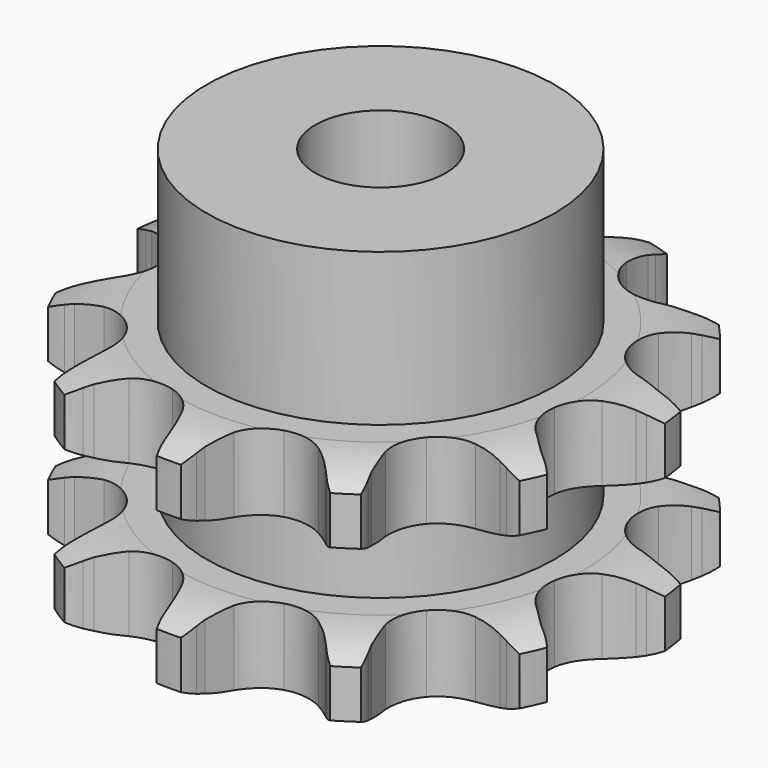
from build123d import *

# Parameters (mm, degrees)
PAD_DEPTH         = 21
SKETCH001_R       = 16
PAD001_DEPTH      = 35
SKETCH002_R       = 6
POCKET_DEPTH      = 0.001
POCKET_DEPTH_BACK = 35.001


with BuildPart() as part:
    # Sprocket → Pad (new body)
    with BuildSketch(Plane.XY):
        with BuildLine():
            ThreePointArc((-7.380823, 25.136776), (-6.051163, 23.969307), (-5.046327, 22.512843))
            Line((-5.046327, 22.512843), (-4.68124, 21.812874))
            ThreePointArc((-4.68124, 21.812874), (-4.040517, 20.736887), (-3.282898, 19.739747))
            ThreePointArc((-3.282898, 19.739747), (-1.807809, 18.621753), (0, 18.224731))
            ThreePointArc((0, 18.224731), (1.807809, 18.621753), (3.282898, 19.739747))
            ThreePointArc((3.282898, 19.739747), (4.040517, 20.736887), (4.68124, 21.812874))
            Line((4.68124, 21.812874), (5.046327, 22.512843))
            ThreePointArc((5.046327, 22.512843), (6.051163, 23.969307), (7.380823, 25.136776))
            ThreePointArc((7.380823, 25.136776), (7.868224, 23.43577), (7.926122, 21.66726))
            Line((7.926122, 21.66726), (7.85482, 20.881026))
            ThreePointArc((7.85482, 20.881026), (7.812108, 19.629448), (7.910363, 18.381001))
            ThreePointArc((7.910363, 18.381001), (8.546854, 16.642991), (9.853034, 15.331619))
            ThreePointArc((9.853034, 15.331619), (11.588505, 14.68824), (13.433863, 14.831263))
            Line((13.433863, 14.831263), (15.731039, 15.819288))
            ThreePointArc((15.731039, 15.819288), (16.070347, 16.021108), (16.416603, 16.210759))
            ThreePointArc((16.416603, 16.210759), (18.049348, 16.892759), (19.799111, 17.156027))
            ThreePointArc((19.799111, 17.156027), (19.289505, 15.461541), (18.382083, 13.942474))
            Line((18.382083, 13.942474), (17.897031, 13.319601))
            ThreePointArc((17.897031, 13.319601), (17.184444, 12.289798), (16.59214, 11.186417))
            ThreePointArc((16.59214, 11.186417), (16.187951, 9.380197), (16.577799, 7.570827))
            ThreePointArc((16.577799, 7.570827), (17.689933, 6.091315), (19.319671, 5.213958))
            Line((19.319671, 5.213958), (21.786345, 4.80319))
            ThreePointArc((21.786345, 4.80319), (22.180901, 4.789528), (22.574723, 4.761873))
            ThreePointArc((22.574723, 4.761873), (24.316992, 4.452879), (25.931321, 3.728361))
            ThreePointArc((25.931321, 3.728361), (24.586504, 2.578383), (23.001862, 1.791051))
            Line((23.001862, 1.791051), (22.25706, 1.529296))
            ThreePointArc((22.25706, 1.529296), (21.100841, 1.048224), (20.00603, 0.440224))
            ThreePointArc((20.00603, 0.440224), (18.689488, -0.860743), (18.03923, -2.59365))
            ThreePointArc((18.03923, -2.59365), (18.174932, -4.43956), (19.07162, -6.058742))
            Line((19.07162, -6.058742), (20.92464, -7.737887))
            ThreePointArc((20.92464, -7.737887), (21.249175, -7.962693), (21.565528, -8.198874))
            ThreePointArc((21.565528, -8.198874), (22.864164, -9.400759), (23.830519, -10.883033))
            ThreePointArc((23.830519, -10.883033), (22.077463, -11.123394), (20.318713, -10.929018))
            Line((20.318713, -10.929018), (19.55063, -10.74655))
            ThreePointArc((19.55063, -10.74655), (18.317869, -10.526154), (17.068147, -10.445736))
            ThreePointArc((17.068147, -10.445736), (15.257245, -10.828404), (13.773333, -11.934661))
            ThreePointArc((13.773333, -11.934661), (12.889518, -13.560906), (12.768464, -15.407834))
            Line((12.768464, -15.407834), (13.41951, -17.82224))
            ThreePointArc((13.41951, -17.82224), (13.570987, -18.186815), (13.70943, -18.556537))
            ThreePointArc((13.70943, -18.556537), (14.152125, -20.269722), (14.163696, -22.039142))
            ThreePointArc((14.163696, -22.039142), (12.558982, -21.293572), (11.184516, -20.179201))
            Line((11.184516, -20.179201), (10.637013, -19.610441))
            ThreePointArc((10.637013, -19.610441), (9.719104, -18.758552), (8.711247, -18.015249))
            ThreePointArc((8.711247, -18.015249), (6.980934, -17.358122), (5.1345, -17.486501))
            ThreePointArc((5.1345, -17.486501), (3.511774, -18.37676), (2.411412, -19.865048))
            Line((2.411412, -19.865048), (1.65378, -22.248157))
            ThreePointArc((1.65378, -22.248157), (1.584106, -22.636752), (1.500686, -23.02263))
            ThreePointArc((1.500686, -23.02263), (0.946886, -24.703191), (0, -26.197978))
            ThreePointArc((0, -26.197978), (-0.946886, -24.703191), (-1.500686, -23.02263))
            Line((-1.500686, -23.02263), (-1.65378, -22.248157))
            ThreePointArc((-1.65378, -22.248157), (-1.965409, -21.035242), (-2.411412, -19.865048))
            ThreePointArc((-2.411412, -19.865048), (-3.511774, -18.37676), (-5.1345, -17.486501))
            ThreePointArc((-5.1345, -17.486501), (-6.980934, -17.358122), (-8.711247, -18.015249))
            Line((-8.711247, -18.015249), (-10.637013, -19.610441))
            ThreePointArc((-10.637013, -19.610441), (-10.905717, -19.89968), (-11.184516, -20.179201))
            ThreePointArc((-11.184516, -20.179201), (-12.558982, -21.293572), (-14.163696, -22.039142))
            ThreePointArc((-14.163696, -22.039142), (-14.152125, -20.269722), (-13.70943, -18.556537))
            Line((-13.70943, -18.556537), (-13.41951, -17.82224))
            ThreePointArc((-13.41951, -17.82224), (-13.025918, -16.633392), (-12.768464, -15.407834))
            ThreePointArc((-12.768464, -15.407834), (-12.889518, -13.560906), (-13.773333, -11.934661))
            ThreePointArc((-13.773333, -11.934661), (-15.257245, -10.828404), (-17.068147, -10.445736))
            Line((-17.068147, -10.445736), (-19.55063, -10.74655))
            ThreePointArc((-19.55063, -10.74655), (-19.933052, -10.8446), (-20.318713, -10.929018))
            ThreePointArc((-20.318713, -10.929018), (-22.077463, -11.123394), (-23.830519, -10.883033))
            ThreePointArc((-23.830519, -10.883033), (-22.864164, -9.400759), (-21.565528, -8.198874))
            Line((-21.565528, -8.198874), (-20.92464, -7.737887))
            ThreePointArc((-20.92464, -7.737887), (-19.95079, -6.950557), (-19.07162, -6.058742))
            ThreePointArc((-19.07162, -6.058742), (-18.174932, -4.43956), (-18.03923, -2.59365))
            ThreePointArc((-18.03923, -2.59365), (-18.689488, -0.860743), (-20.00603, 0.440224))
            Line((-20.00603, 0.440224), (-22.25706, 1.529296))
            ThreePointArc((-22.25706, 1.529296), (-22.631784, 1.653563), (-23.001862, 1.791051))
            ThreePointArc((-23.001862, 1.791051), (-24.586504, 2.578383), (-25.931321, 3.728361))
            ThreePointArc((-25.931321, 3.728361), (-24.316992, 4.452879), (-22.574723, 4.761873))
            Line((-22.574723, 4.761873), (-21.786345, 4.80319))
            ThreePointArc((-21.786345, 4.80319), (-20.541427, 4.939031), (-19.319671, 5.213958))
            ThreePointArc((-19.319671, 5.213958), (-17.689933, 6.091315), (-16.577799, 7.570827))
            ThreePointArc((-16.577799, 7.570827), (-16.187951, 9.380197), (-16.59214, 11.186417))
            Line((-16.59214, 11.186417), (-17.897031, 13.319601))
            ThreePointArc((-17.897031, 13.319601), (-18.145085, 13.626732), (-18.382083, 13.942474))
            ThreePointArc((-18.382083, 13.942474), (-19.289505, 15.461541), (-19.799111, 17.156027))
            ThreePointArc((-19.799111, 17.156027), (-18.049348, 16.892759), (-16.416603, 16.210759))
            Line((-16.416603, 16.210759), (-15.731039, 15.819288))
            ThreePointArc((-15.731039, 15.819288), (-14.610307, 15.260511), (-13.433863, 14.831263))
            ThreePointArc((-13.433863, 14.831263), (-11.588505, 14.68824), (-9.853034, 15.331619))
            ThreePointArc((-9.853034, 15.331619), (-8.546854, 16.642991), (-7.910363, 18.381001))
            Line((-7.910363, 18.381001), (-7.85482, 20.881026))
            ThreePointArc((-7.85482, 20.881026), (-7.897449, 21.27351), (-7.926122, 21.66726))
            ThreePointArc((-7.926122, 21.66726), (-7.868224, 23.43577), (-7.380823, 25.136776))
        make_face()
    extrude(amount=PAD_DEPTH)

    # Sketch → Groove (revolve, cut)
    with BuildSketch(Plane.XZ):
        with BuildLine():
            ThreePointArc((18.683431, 0), (21.59032, 0.329167), (24.35, 1.3))
            Line((24.35, 1.3), (24.35, 5.7))
            ThreePointArc((24.35, 5.7), (21.59032, 6.670833), (18.683431, 7))
            Line((16, 7), (18.683431, 7))
            Line((16, 14), (16, 7))
            Line((18.683431, 14), (16, 14))
            ThreePointArc((18.683431, 14), (21.59032, 14.329167), (24.35, 15.3))
            Line((24.35, 15.3), (24.35, 19.7))
            ThreePointArc((24.35, 19.7), (21.59032, 20.670833), (18.683431, 21))
            Line((18.683431, 21), (28.683431, 21))
            Line((28.683431, 21), (28.683431, 0))
            Line((18.683431, 0), (28.683431, 0))
        make_face()
    revolve(axis=Axis((0, 0, 0), (0, 0, 1)), mode=Mode.SUBTRACT)

    # Sketch001 → Pad001 (join)
    with BuildSketch(Plane.XY):
        Circle(SKETCH001_R)
    extrude(amount=PAD001_DEPTH)

    # Sketch002 → Pocket (cut, two sides)
    with BuildSketch(Plane.XY) as pocket_sk:
        Circle(SKETCH002_R)
    extrude(amount=-POCKET_DEPTH, mode=Mode.SUBTRACT)
    extrude(pocket_sk.sketch, amount=POCKET_DEPTH_BACK, mode=Mode.SUBTRACT)


solid = part.part
